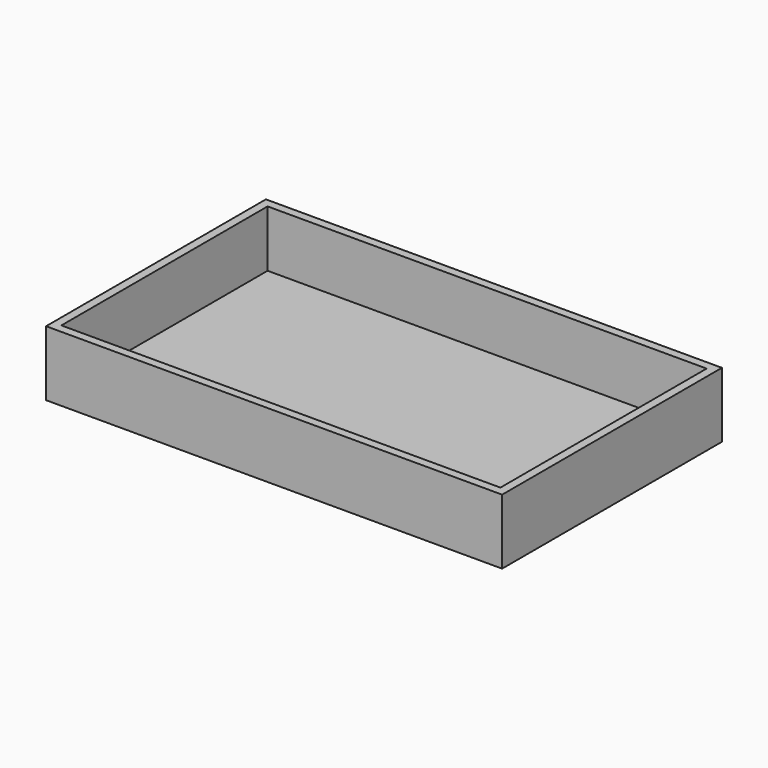
from build123d import *

# Parameters (mm, degrees)
F0_W     = 984.25
F0_H     = 577.85
F1_DEPTH = 19.05
F2_W     = 1022.35
F2_H     = 615.95
F2_W_2   = 984.25
F2_H_2   = 577.85
F3_DEPTH = 146.05


with BuildPart() as f1:
    # F0 (on Top) → F1 (new body)
    with BuildSketch(Plane.XY):
        Rectangle(F0_W, F0_H)
    extrude(amount=F1_DEPTH)


with BuildPart() as f3:
    # F2 (on face) → F3 (new body)
    with BuildSketch(Plane(origin=(0, 0, 0), x_dir=(1, 0, 0), z_dir=(0, 0, -1))):
        Rectangle(F2_W, F2_H)
        Rectangle(F2_W_2, F2_H_2, mode=Mode.SUBTRACT)
    extrude(amount=-F3_DEPTH)


solid = Compound([f1.part, f3.part])
